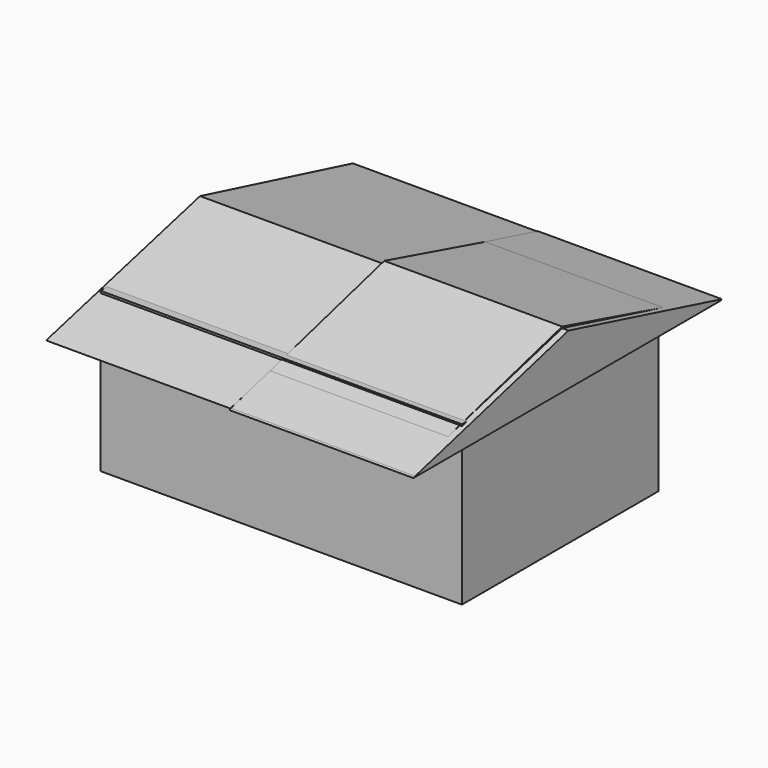
from build123d import *

# Parameters (mm, degrees)
F0_W      = 144.5718035102
F0_H      = 98.2272140682
F1_DEPTH  = 63.5
F3_DEPTH  = 73.66
F1_FACE_W = 98.2272140682
F1_FACE_H = 55.8175444603
F5_DEPTH  = 73.66
F7_DEPTH  = 71.12
F9_DEPTH  = 73.66


with BuildPart() as f1:
    # F0 (on Top) → F1 (new body)
    with BuildSketch(Plane.XY):
        with Locations((-0.2914778888, -2.040328458)):
            Rectangle(F0_W, F0_H)
    extrude(amount=F1_DEPTH)

    # F2 (on Right) → F3 (join)
    with BuildSketch(Plane.YZ):
        Polygon((-77.5057077408, 55.8175444603), (76.3933062553, 55.8175444603), (0, 76.2208253145), align=None)
    extrude(amount=F3_DEPTH)

    # F4 (on Right) + F3_face (on face) + F1_face (on face) → F5 (join)
    with BuildSketch(Plane.YZ):
        Polygon((0, 75.6378695369), (-76.9227594137, 56.1090186238), (76.3933062553, 56.1090186238), align=None)
    with BuildSketch(Plane(origin=(73.66, -0.3708004951, 62.6186380784), x_dir=(0, 1, 0), z_dir=(1, 0, 0))):
        Polygon((-77.1349072456, -6.8010936181), (76.7641067505, -6.8010936181), (0.3708004951, 13.6021872362), align=None)
    with BuildSketch(Plane(origin=(71.9944238663, -2.040328458, 27.9087722301), x_dir=(0, 1, 0), z_dir=(1, 0, 0))):
        Rectangle(F1_FACE_W, F1_FACE_H)
    extrude(amount=-F5_DEPTH)

    # F6 (on Right) → F7 (join)
    with BuildSketch(Plane.YZ):
        Polygon((-76.9643932581, 55.8175444603), (76.6431465745, 55.8175444603), (0, 76.8037736416), align=None)
    extrude(amount=F7_DEPTH)

    # F8 (on Right) + F5_face (on face) → F9 (join)
    with BuildSketch(Plane.YZ):
        Polygon((0, 76.2208253145), (-76.6312852502, 56.1090186238), (76.6847804189, 56.1090186238), align=None)
    with BuildSketch(Plane(origin=(-73.66, -0.1764843861, 62.6186355948), x_dir=(0, 1, 0), z_dir=(-1, 0, 0))):
        Polygon((-76.7462750276, 6.509616971), (0.1764843861, -13.019233942), (76.5697906415, 6.509616971), align=None)
    extrude(amount=F9_DEPTH, dir=(1, 0, 0))


solid = f1.part
